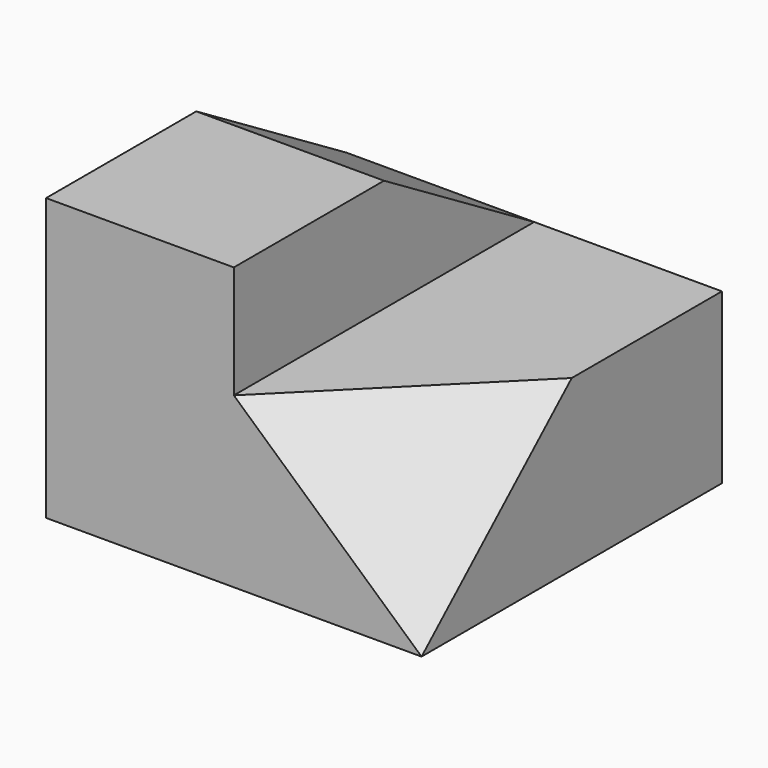
from build123d import *

# Parameters (mm, degrees)
F1_DEPTH = 127
F3_DEPTH = 254
F7_DEPTH = 117.6922930425


with BuildPart() as f1:
    # F0 (on Front) → F1 (new body, symmetric)
    with BuildSketch(Plane.XZ):
        Polygon((0, 190.5), (0, 0), (254, 0), (254, 114.3), (127, 114.3), (127, 190.5), align=None)
    extrude(amount=F1_DEPTH, both=True)

    # F2 (on face) → F3 (cut)
    with BuildSketch(Plane.YZ.offset(127)):
        Polygon((127, 190.5), (0, 190.5), (127, 114.3), align=None)
    extrude(amount=-F3_DEPTH, mode=Mode.SUBTRACT)

    # F6 (on 3pt) → F7 (cut, through all)
    with BuildSketch(Plane(origin=(117.7900763359, -117.7900763359, 130.8778625954), x_dir=(0.8311676694, 0.3719590123, -0.4132877914), z_dir=(0.5560218569, -0.5560218569, 0.6178020632))):
        Polygon((163.877793469, -94.3983565734), (163.877793469, 76.4626688244), (11.0807048965, -17.9356877489), align=None)
    extrude(amount=F7_DEPTH, mode=Mode.SUBTRACT)


solid = f1.part
